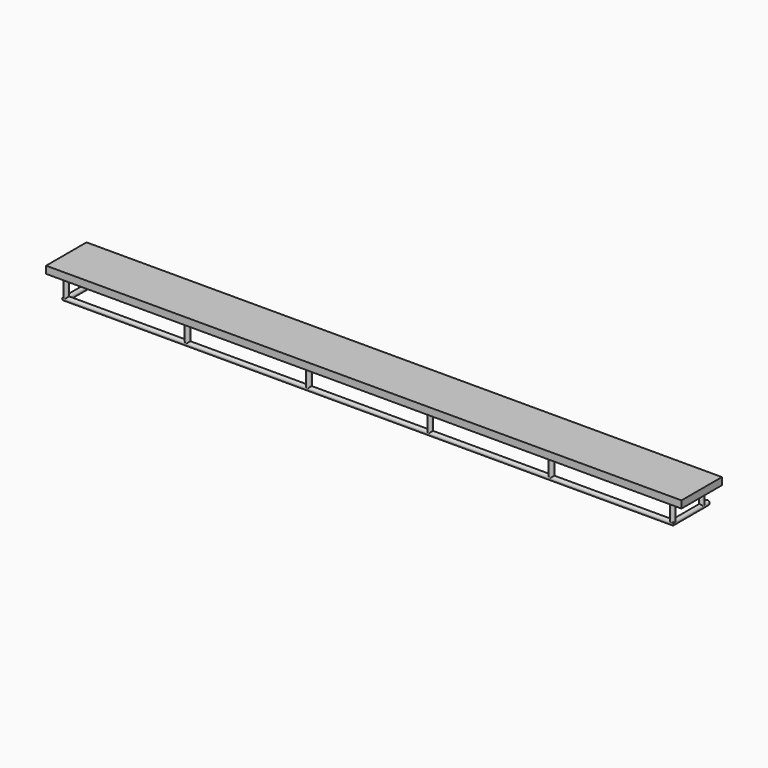
from build123d import *

# Parameters (mm, degrees)
F1_R     = 15.875
F4_R     = 15.875
F7_W     = 355.6
F7_H     = 50.8
F8_DEPTH = 4470.4


with BuildPart() as f2:
    # F2: sweep along a path in F0
    with BuildLine(Plane.XY) as f2_path:
        Line((0, 0), (0, -304.8))
        Line((0, -304.8), (4267.2, -304.8))
        Line((4267.2, -304.8), (4267.2, 0))
    # F1 (on Front) → F2 (sweep)
    with BuildSketch(Plane.XZ):
        Circle(F1_R)
    sweep(path=f2_path.line, transition=Transition.RIGHT)


with BuildPart() as f5:
    # F4 (on offset) → F5 (new body, up to the next surface of F2)
    with BuildSketch(Plane.XY.offset(139.7)):
        with Locations((0, -50.8)):
            Circle(F4_R)
    extrude(until=Until.NEXT, target=f2.part, dir=(0, 0, -1))


with BuildPart() as f5b:
    # F4 (on offset) → F5, piece 2 (new body, up to the next surface of F2)
    with BuildSketch(Plane.XY.offset(139.7)):
        with Locations((0, -304.8)):
            Circle(F4_R)
    extrude(until=Until.NEXT, target=f2.part, dir=(0, 0, -1))


with BuildPart() as f5c:
    # F4 (on offset) → F5, piece 3 (new body, up to the next surface of F2)
    with BuildSketch(Plane.XY.offset(139.7)):
        with Locations((4267.2, -50.8)):
            Circle(F4_R)
    extrude(until=Until.NEXT, target=f2.part, dir=(0, 0, -1))


with BuildPart() as f5d:
    # F4 (on offset) → F5, piece 4 (new body, up to the next surface of F2)
    with BuildSketch(Plane.XY.offset(139.7)):
        with Locations((4267.2, -304.8)):
            Circle(F4_R)
    extrude(until=Until.NEXT, target=f2.part, dir=(0, 0, -1))


with BuildPart() as f5e:
    # F4 (on offset) → F5, piece 5 (new body, up to the next surface of F2)
    with BuildSketch(Plane.XY.offset(139.7)):
        with Locations((853.44, -304.8)):
            Circle(F4_R)
    extrude(until=Until.NEXT, target=f2.part, dir=(0, 0, -1))


with BuildPart() as f5f:
    # F4 (on offset) → F5, piece 6 (new body, up to the next surface of F2)
    with BuildSketch(Plane.XY.offset(139.7)):
        with Locations((1706.88, -304.8)):
            Circle(F4_R)
    extrude(until=Until.NEXT, target=f2.part, dir=(0, 0, -1))


with BuildPart() as f5g:
    # F4 (on offset) → F5, piece 7 (new body, up to the next surface of F2)
    with BuildSketch(Plane.XY.offset(139.7)):
        with Locations((2560.32, -304.8)):
            Circle(F4_R)
    extrude(until=Until.NEXT, target=f2.part, dir=(0, 0, -1))


with BuildPart() as f5h:
    # F4 (on offset) → F5, piece 8 (new body, up to the next surface of F2)
    with BuildSketch(Plane.XY.offset(139.7)):
        with Locations((3413.76, -304.8)):
            Circle(F4_R)
    extrude(until=Until.NEXT, target=f2.part, dir=(0, 0, -1))


with BuildPart() as f8:
    # F7 (on offset) → F8 (new body)
    with BuildSketch(Plane.YZ.offset(-101.6)):
        with Locations((-177.8, 165.1)):
            Rectangle(F7_W, F7_H)
    extrude(amount=F8_DEPTH)


solid = Compound([f2.part, f5.part, f5b.part, f5c.part, f5d.part, f5e.part, f5f.part, f5g.part, f5h.part, f8.part])
